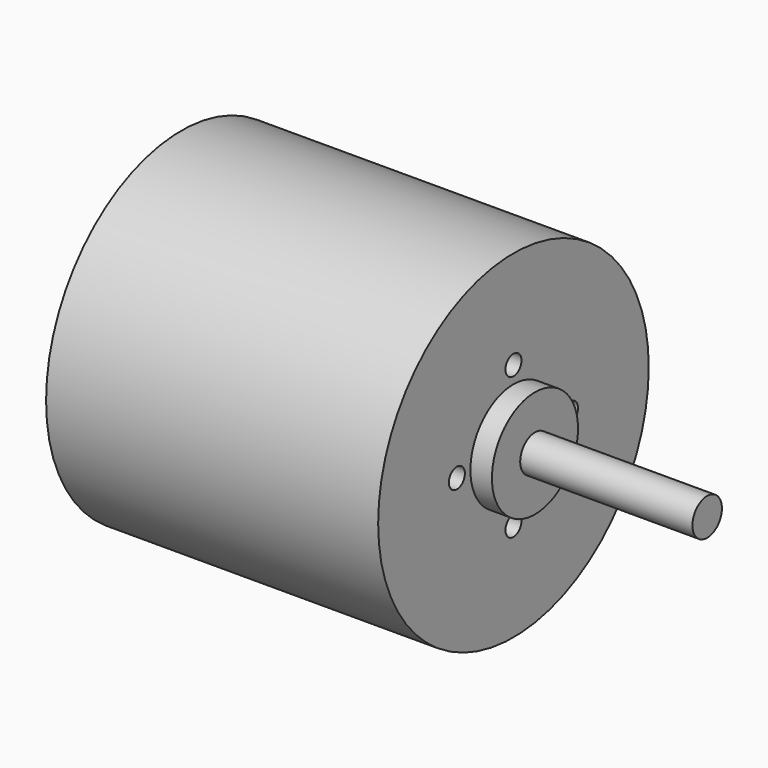
from build123d import *

# Parameters (mm, degrees)
SKETCH041_R     = 13.97
PAD019_DEPTH    = 27.432
SKETCH042_R     = 4.445
PAD020_DEPTH    = 1.778
SKETCH043_R     = 1.524
PAD021_DEPTH    = 14.224
SKETCH044_R     = 0.8255
POCKET018_DEPTH = 5.08
SKETCH049_R     = 1.5
POCKET021_DEPTH = 5.08


with BuildPart() as part:
    # Sketch041 → Pad019 (new body)
    with BuildSketch(Plane.YZ):
        Circle(SKETCH041_R)
    extrude(amount=PAD019_DEPTH)

    # Sketch042 (on Face3 of Pad019) → Pad020 (join)
    with BuildSketch(Plane.YZ.offset(27.432)):
        Circle(SKETCH042_R)
    extrude(amount=PAD020_DEPTH)

    # Sketch043 (on Face5 of Pad020) → Pad021 (join)
    with BuildSketch(Plane.YZ.offset(29.21)):
        Circle(SKETCH043_R)
    extrude(amount=PAD021_DEPTH)

    # Sketch044 (on Face3 of Pad021) → Pocket018 (cut)
    with BuildSketch(Plane.YZ.offset(27.432)):
        with Locations((0, 5.842)):
            Circle(SKETCH044_R)
        with Locations((5.842, 0)):
            Circle(SKETCH044_R)
        with Locations((0, -5.842)):
            Circle(SKETCH044_R)
        with Locations((-5.842, 0)):
            Circle(SKETCH044_R)
    extrude(amount=-POCKET018_DEPTH, mode=Mode.SUBTRACT)

    # Sketch049 (on Face2 of Pocket018) → Pocket021 (cut)
    with BuildSketch(Plane(origin=(0, 0, 0), x_dir=(0, 1, 0), z_dir=(-1, 0, 0))):
        with Locations((0, 9.525)):
            Circle(SKETCH049_R)
        with Locations((7.9375, 0)):
            Circle(SKETCH049_R)
        with Locations((0, -9.525)):
            Circle(SKETCH049_R)
        with Locations((-7.9375, 0)):
            Circle(SKETCH049_R)
    extrude(amount=-POCKET021_DEPTH, mode=Mode.SUBTRACT)


with BuildPart() as part_1:
    # Body017 placement: moved
    add(part.part.moved(Location((-24.13, -5.33, 14.476))))


solid = part_1.part
